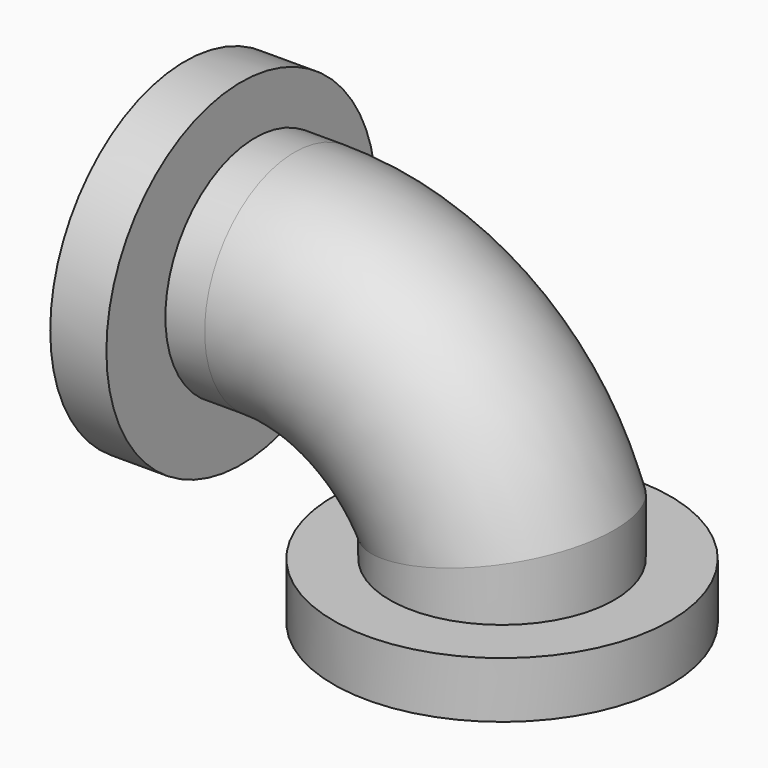
from build123d import *

# Parameters (mm, degrees)
F0_R     = 20
F0_R_2   = 10
F4_R     = 30
F4_R_2   = 20
F5_DEPTH = 10
F7_R     = 30
F7_R_2   = 20
F8_DEPTH = 10


with BuildPart() as f2:
    # F2: sweep along a path in F1
    with BuildLine(Plane.XZ) as f2_path:
        Line((0, 0), (20, 0))
        ThreePointArc((20, 0), (42.2189880114, -6.7386625081), (56.9516629488, -24.6841714126))
        Line((56.9516629488, -24.6841714126), (56.9516629488, -44.6841714126))
    # F0 (on Right) → F2 (sweep)
    with BuildSketch(Plane.YZ):
        Circle(F0_R)
        Circle(F0_R_2, mode=Mode.SUBTRACT)
    sweep(path=f2_path.line, transition=Transition.RIGHT)

    # F4 (on offset) → F5 (join)
    with BuildSketch(Plane(origin=(3, 0, 0), x_dir=(0, -1, 0), z_dir=(-1, 0, 0))):
        with Locations((3.1234200654, 0)):
            Circle(F4_R)
        Circle(F4_R_2, mode=Mode.SUBTRACT)
    extrude(amount=-F5_DEPTH)

    # F7 (on offset) → F8 (join)
    with BuildSketch(Plane(origin=(0, 0, -41.6841714126), x_dir=(1, 0, 0), z_dir=(0, 0, -1))):
        with Locations((56.9516629488, 0)):
            Circle(F7_R)
        with Locations((56.9516629488, 0)):
            Circle(F7_R_2, mode=Mode.SUBTRACT)
    extrude(amount=-F8_DEPTH)


solid = f2.part
